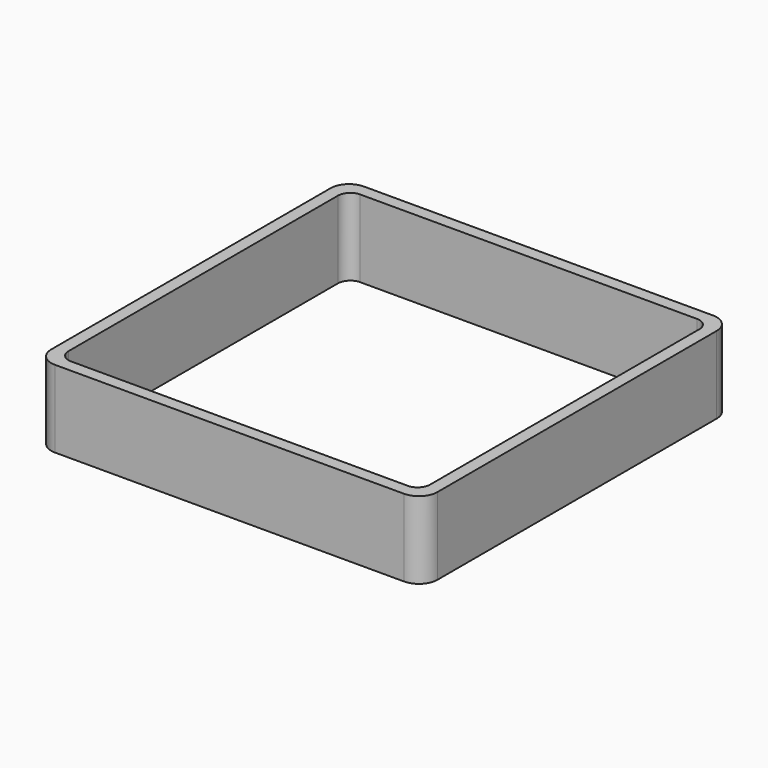
from build123d import *

# Parameters (mm, degrees)
EXTRUDE_DEPTH = 50


with BuildPart() as part:
    # Sketch → Extrude (new body)
    with BuildSketch(Plane.XY):
        with BuildLine():
            Line((-113, 125), (113, 125))
            ThreePointArc((125, 113), (121.485281, 121.485281), (113, 125))
            Line((125, 113), (125, -113))
            ThreePointArc((113, -125), (121.485281, -121.485281), (125, -113))
            Line((113, -125), (-113, -125))
            ThreePointArc((-125, -113), (-121.485281, -121.485281), (-113, -125))
            Line((-125, -113), (-125, 113))
            ThreePointArc((-113, 125), (-121.485281, 121.485281), (-125, 113))
        make_face()
        with BuildLine():
            Line((-109, 117), (109, 117))
            ThreePointArc((117, 109), (114.656854, 114.656854), (109, 117))
            Line((117, 109), (117, -109))
            ThreePointArc((109, -117), (114.656854, -114.656854), (117, -109))
            Line((109, -117), (-109, -117))
            ThreePointArc((-117, -109), (-114.656854, -114.656854), (-109, -117))
            Line((-117, -109), (-117, 109))
            ThreePointArc((-109, 117), (-114.656854, 114.656854), (-117, 109))
        make_face(mode=Mode.SUBTRACT)
    extrude(amount=EXTRUDE_DEPTH)


solid = part.part
